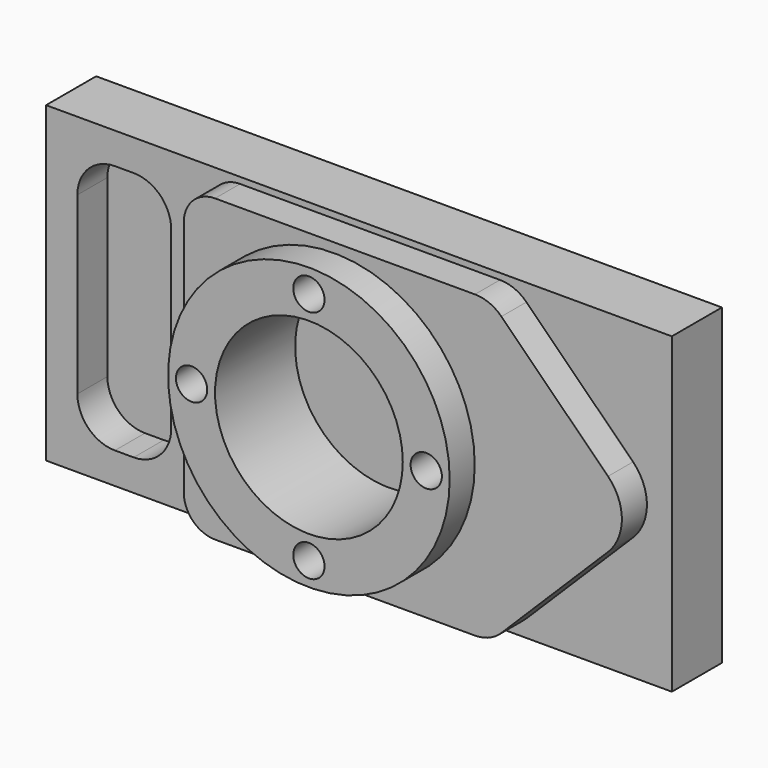
from build123d import *

# Parameters (mm, degrees)
F0_R     = 30
F1_DEPTH = 8
F0_W     = 200
F0_H     = 100
F2_DEPTH = 20
F0_R_2   = 45
F3_DEPTH = 30
F0_R_3   = 5
F4_DEPTH = 40
F5_DEPTH = 15


with BuildPart() as f1:
    # F0 (on Front) → F1 (new body)
    with BuildSketch(Plane.XZ):
        with Locations((-100, 50)):
            Circle(F0_R)
        with BuildLine():
            Line((-172, 90), (-178, 90))
            ThreePointArc((-178, 90), (-186.485281, 86.485281), (-190, 78))
            Line((-190, 78), (-190, 22))
            ThreePointArc((-190, 22), (-186.485281, 13.514719), (-178, 10))
            Line((-178, 10), (-172, 10))
            ThreePointArc((-172, 10), (-163.514719, 13.514719), (-160, 22))
            Line((-160, 22), (-160, 78))
            ThreePointArc((-160, 78), (-163.514719, 86.485281), (-172, 90))
        make_face()
    extrude(amount=F1_DEPTH)

    # F0 (on Front) → F2 (join)
    with BuildSketch(Plane.XZ):
        with Locations((-100, 50)):
            Rectangle(F0_W, F0_H)
        with BuildLine():
            ThreePointArc((-190, 78), (-186.485281, 86.485281), (-178, 90))
            Line((-178, 90), (-172, 90))
            ThreePointArc((-172, 90), (-163.514719, 86.485281), (-160, 78))
            Line((-160, 78), (-160, 22))
            ThreePointArc((-160, 22), (-163.514719, 13.514719), (-172, 10))
            Line((-172, 10), (-178, 10))
            ThreePointArc((-178, 10), (-186.485281, 13.514719), (-190, 22))
            Line((-190, 22), (-190, 78))
        make_face(mode=Mode.SUBTRACT)
        with BuildLine():
            Line((-148, 12), (-148, 88))
            ThreePointArc((-148, 88), (-145.071068, 95.071068), (-138, 98))
            Line((-138, 98), (-54.944423, 98))
            ThreePointArc((-54.944423, 98), (-50.369094, 97.093528), (-46.485, 94.511061))
            Line((-46.485, 94.511061), (-12.406, 60.638827))
            ThreePointArc((-12.406, 60.638827), (-7.980278, 50), (-12.406, 39.361173))
            Line((-12.406, 39.361173), (-46.485, 5.488939))
            ThreePointArc((-46.485, 5.488939), (-50.369094, 2.906472), (-54.944423, 2))
            Line((-54.944423, 2), (-138, 2))
            ThreePointArc((-138, 2), (-145.071068, 4.928932), (-148, 12))
        make_face(mode=Mode.SUBTRACT)
    extrude(amount=F2_DEPTH)

    # F0 (on Front) → F3 (join)
    with BuildSketch(Plane.XZ):
        with BuildLine():
            ThreePointArc((-138, 98), (-145.071068, 95.071068), (-148, 88))
            Line((-148, 88), (-148, 12))
            ThreePointArc((-148, 12), (-145.071068, 4.928932), (-138, 2))
            Line((-138, 2), (-54.944423, 2))
            ThreePointArc((-54.944423, 2), (-50.369094, 2.906472), (-46.485, 5.488939))
            Line((-46.485, 5.488939), (-12.406, 39.361173))
            ThreePointArc((-12.406, 39.361173), (-7.980278, 50), (-12.406, 60.638827))
            Line((-12.406, 60.638827), (-46.485, 94.511061))
            ThreePointArc((-46.485, 94.511061), (-50.369094, 97.093528), (-54.944423, 98))
            Line((-54.944423, 98), (-138, 98))
        make_face()
        with Locations((-100, 50)):
            Circle(F0_R_2, mode=Mode.SUBTRACT)
    extrude(amount=F3_DEPTH)


with BuildPart() as f4:
    # F0 (on Front) → F4 (new body)
    with BuildSketch(Plane.XZ):
        with Locations((-100, 50)):
            Circle(F0_R_2)
        with Locations((-100, 12.5)):
            Circle(F0_R_3, mode=Mode.SUBTRACT)
        with Locations((-137.5, 50)):
            Circle(F0_R_3, mode=Mode.SUBTRACT)
        with Locations((-100, 50)):
            Circle(F0_R, mode=Mode.SUBTRACT)
        with Locations((-62.5, 50)):
            Circle(F0_R_3, mode=Mode.SUBTRACT)
        with Locations((-100, 87.5)):
            Circle(F0_R_3, mode=Mode.SUBTRACT)
    extrude(amount=F4_DEPTH)

    # F0 (on Front) → F5 (join)
    with BuildSketch(Plane.XZ):
        with Locations((-100, 87.5)):
            Circle(F0_R_3)
        with Locations((-62.5, 50)):
            Circle(F0_R_3)
        with Locations((-100, 12.5)):
            Circle(F0_R_3)
        with Locations((-137.5, 50)):
            Circle(F0_R_3)
    extrude(amount=F5_DEPTH)


solid = Compound([f1.part, f4.part])
